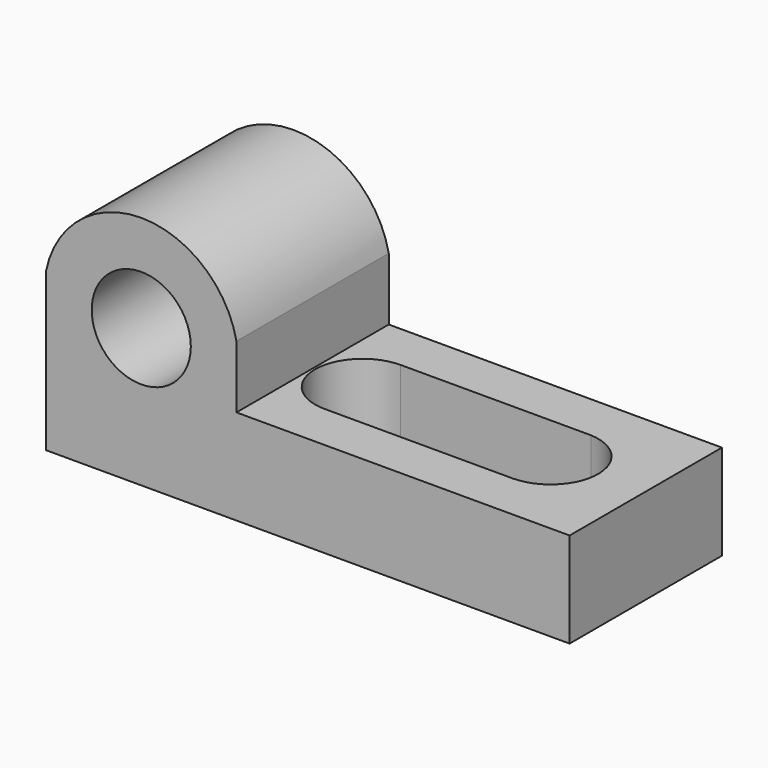
from build123d import *

# Parameters (mm, degrees)
F0_W      = 69.85
F0_H      = 31.75
F1_DEPTH  = 25.4
F2_W      = 44.45
F2_H      = 19.05
F3_DEPTH  = 25.4
F5_DEPTH  = 25.4
F6_R      = 6.6122667184
F7_DEPTH  = 25.4
F9_DEPTH  = 25.4
F11_DEPTH = 25.4


with BuildPart() as f1:
    # F0 (on Front) → F1 (new body)
    with BuildSketch(Plane.XZ):
        with Locations((34.925, 15.875)):
            Rectangle(F0_W, F0_H)
    extrude(amount=F1_DEPTH)

    # F2 (on face) → F3 (cut)
    with BuildSketch(Plane.XZ.offset(25.4)):
        with Locations((47.625, 22.225)):
            Rectangle(F2_W, F2_H)
    extrude(amount=-F3_DEPTH, mode=Mode.SUBTRACT)

    # F4 (on face) → F5 (cut)
    with BuildSketch(Plane.XZ.offset(25.4)):
        with BuildLine():
            ThreePointArc((0, 21.06358689), (12.7, 31.4315601634), (25.4, 21.06358689))
            Line((25.4, 21.06358689), (25.4, 31.75))
            Line((25.4, 31.75), (0, 31.75))
            Line((0, 31.75), (0, 21.06358689))
        make_face()
    extrude(amount=-F5_DEPTH, mode=Mode.SUBTRACT)

    # F6 (on face) → F7 (cut)
    with BuildSketch(Plane.XZ.offset(25.4)):
        with Locations((12.7, 18.469293445)):
            Circle(F6_R)
    extrude(amount=-F7_DEPTH, mode=Mode.SUBTRACT)

    # F8 (on face) → F9 (cut)
    with BuildSketch(Plane.XY.offset(12.7)):
        with BuildLine():
            Line((57.4697845539, -6.35), (32.0697845539, -6.35))
            ThreePointArc((32.0697845539, -6.35), (25.7197845539, -12.7), (32.0697845539, -19.05))
            Line((32.0697845539, -19.05), (57.1458699361, -19.05))
            ThreePointArc((57.1458699361, -19.05), (63.4979349681, -12.8578792423), (57.4697845539, -6.35))
        make_face()
    extrude(amount=-F9_DEPTH, mode=Mode.SUBTRACT)

    # F10 (on face) → F11 (cut)
    with BuildSketch(Plane.XY.offset(12.7)):
        with BuildLine():
            ThreePointArc((59.4271533191, 0), (69.7393281639, -11.6319730082), (62.5223219395, -25.4))
            Line((62.5223219395, -25.4), (69.85, -25.4))
            Line((69.85, -25.4), (69.85, 0))
            Line((69.85, 0), (59.4271533191, 0))
        make_face()
    extrude(amount=F11_DEPTH, mode=Mode.SUBTRACT)


solid = f1.part
